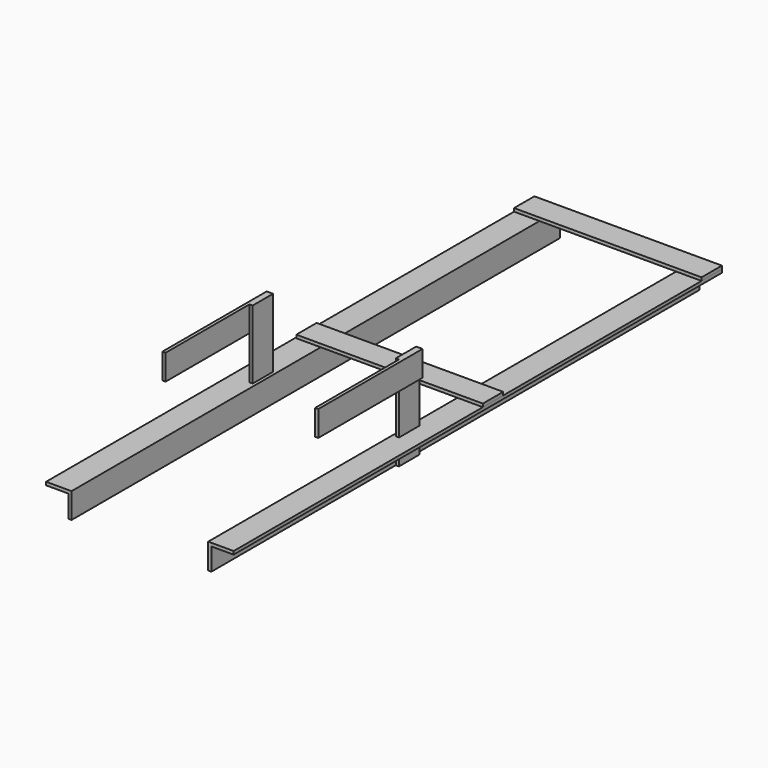
from build123d import *

# Parameters (mm, degrees)
F1_DEPTH  = 609.6
F2_W      = 161.925
F2_H      = 25.4
F2_W_2    = 25.4
F3_DEPTH  = 3.175
F5_DEPTH  = 609.6
F6_W      = 25.4
F6_H      = 25.4
F6_W_2    = 160.9506074816
F7_DEPTH  = 3.175
F9_DEPTH  = 3.175
F10_W     = 130.175
F10_H     = 25.4
F11_DEPTH = 3.175
F12_W     = 25.4
F12_H     = 94.032324
F13_DEPTH = 3.175
F14_W     = 130.175
F14_H     = 25.4
F15_DEPTH = 3.175


with BuildPart() as f1:
    # F0 (on Front) → F1 (new body)
    with BuildSketch(Plane.XZ):
        Polygon((5.1018971294, 25.8379301906), (-20.2981028706, 25.8379301906), (-20.2981028706, 22.6629301906), (1.9268971294, 22.6629301906), (1.9268971294, 11.0358623788), (1.9268971294, 0.4379301906), (5.1018971294, 0.4379301906), align=None)
    extrude(amount=F1_DEPTH)

    # F2 (on face) → F3 (join)
    with BuildSketch(Plane.XY.offset(25.8379301906)):
        with Locations((86.0643971294, -12.7)):
            Rectangle(F2_W, F2_H)
        with Locations((-7.5981028706, -12.7)):
            Rectangle(F2_W_2, F2_H)
    extrude(amount=F3_DEPTH)

    # F12 (on face) → F13 (join)
    with BuildSketch(Plane(origin=(1.9268971294, 0, 0), x_dir=(0, -1, 0), z_dir=(-1, 0, 0))):
        with Locations((366.7442287922, 47.4540921906)):
            Rectangle(F12_W, F12_H)
    extrude(amount=F13_DEPTH)

    # F14 (on face) → F15 (join)
    with BuildSketch(Plane(origin=(-1.2481028706, 0, 0), x_dir=(0, -1, 0), z_dir=(-1, 0, 0))):
        with Locations((419.1317287922, 81.7702541906)):
            Rectangle(F14_W, F14_H)
    extrude(amount=F15_DEPTH)


with BuildPart() as f5:
    # F4 (on face) → F5 (new body)
    with BuildSketch(Plane(origin=(0, 0, 0), x_dir=(-1, 0, 0), z_dir=(0, 1, 0))):
        Polygon((-141.6268971294, 25.8379301906), (-167.0268971294, 25.8379301906), (-167.0268971294, 22.6629301906), (-144.8018971294, 22.6629301906), (-144.8018971294, 0.4379301906), (-141.6268971294, 0.4379301906), align=None)
    extrude(amount=-F5_DEPTH)

    # F8 (on face) → F9 (join)
    with BuildSketch(Plane.YZ.offset(144.8018971294)):
        Polygon((-379.3175518513, 0.4379301906), (-353.9175518513, 0.4379301906), (-353.9175518513, 22.6629301906), (-353.9175518513, 94.469383359), (-379.3175518513, 94.469383359), align=None)
    extrude(amount=F9_DEPTH)

    # F10 (on face) → F11 (join)
    with BuildSketch(Plane.YZ.offset(147.9768971294)):
        with Locations((-419.0050518513, 81.769383359)):
            Rectangle(F10_W, F10_H)
    extrude(amount=F11_DEPTH)


with BuildPart() as f7:
    # F6 (on face) → F7 (new body)
    with BuildSketch(Plane.XY.offset(25.8379301906)):
        with Locations((154.3268971294, -285.75)):
            Rectangle(F6_W, F6_H)
        with Locations((61.1515933886, -285.75)):
            Rectangle(F6_W_2, F6_H)
    extrude(amount=F7_DEPTH)


solid = Compound([f1.part, f5.part, f7.part])
